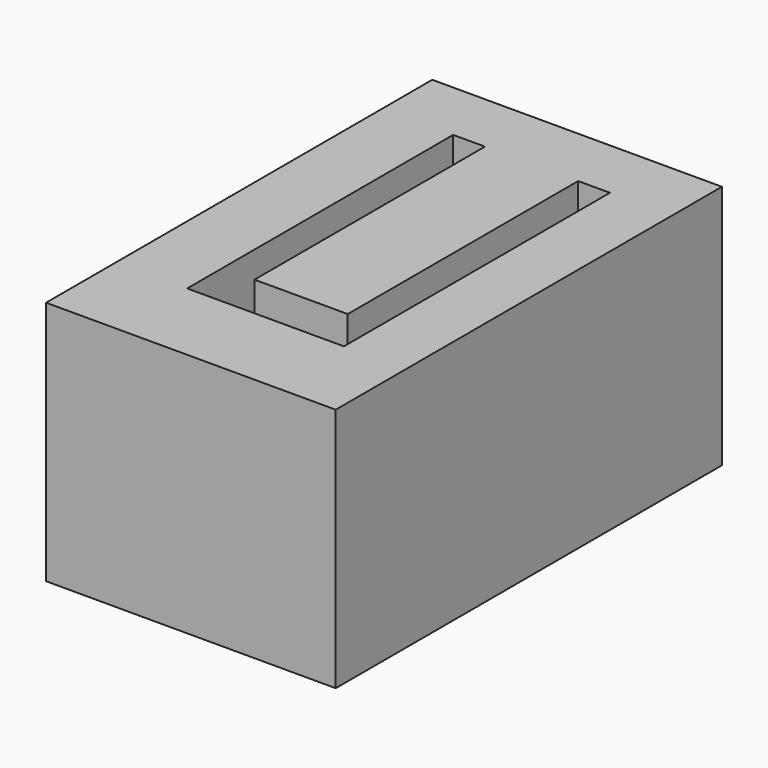
from build123d import *

# Parameters (mm, degrees)
F0_W     = 30
F0_H     = 50
F1_DEPTH = 25.4


with BuildPart() as f1:
    # F0 (on Top) → F1 (new body)
    with BuildSketch(Plane.XY):
        with Locations((-21.536372, 5.012882)):
            Rectangle(F0_W, F0_H)
        Polygon((-29.184621, -10.911903), (-29.184621, 23.531117), (-25.893886, 23.531117), (-25.893886, -6.304875), (-16.241064, -6.304875), (-16.241064, 23.531117), (-12.950331, 23.531117), (-12.950331, -10.911903), align=None, mode=Mode.SUBTRACT)
    extrude(amount=F1_DEPTH)


solid = f1.part
